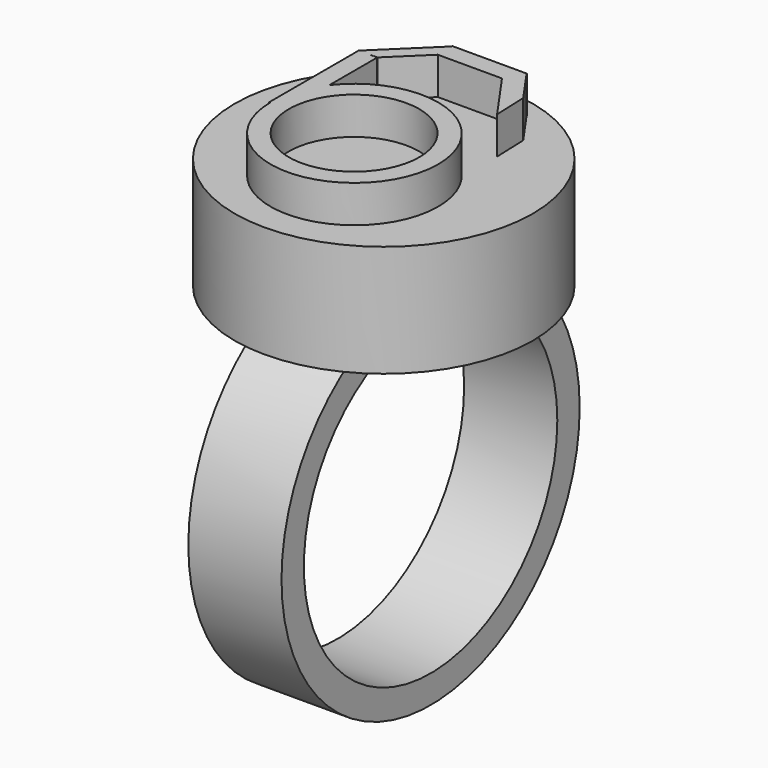
from build123d import *

# Parameters (mm, degrees)
F0_R      = 12.7
F1_DEPTH  = 6.35
F2_R      = 10.795
F3_DEPTH  = 55.83853
F6_R      = 10.156235
F7_DEPTH  = 7.62
F9_R      = 5.715
F10_DEPTH = 2.54
F11_R     = 4.445
F12_DEPTH = 25.4
F13_W     = 1.27
F13_H     = 7.62
F14_DEPTH = 2.54
F16_DEPTH = 2.54
F17_W     = 5.072208
F17_H     = 1.261867
F18_DEPTH = 2.54
F20_DEPTH = 2.54


with BuildPart() as f1:
    # F0 (on Right) → F1 (new body)
    with BuildSketch(Plane.YZ):
        Circle(F0_R)
    extrude(amount=F1_DEPTH)

    # F2 (on Right) → F3 (cut)
    with BuildSketch(Plane.YZ):
        Circle(F2_R)
    extrude(amount=F3_DEPTH, mode=Mode.SUBTRACT)

    # F6 (on offset) → F7 (join)
    with BuildSketch(Plane.XY.offset(11.43)):
        with Locations((3.156903, 0)):
            Circle(F6_R)
    extrude(amount=F7_DEPTH)

    # F9 (on offset) → F10 (join)
    with BuildSketch(Plane.XY.offset(19.05)):
        with Locations((3.159848, -2.503511)):
            Circle(F9_R)
    extrude(amount=F10_DEPTH)

    # F11 (on offset) → F12 (cut)
    with BuildSketch(Plane.XY.offset(19.05)):
        with Locations((3.132005, -2.497431)):
            Circle(F11_R)
    extrude(amount=F12_DEPTH, mode=Mode.SUBTRACT)

    # F13 (on offset) → F14 (join)
    with BuildSketch(Plane.XY.offset(19.05)):
        with Locations((-1.985011, 1.270657)):
            Rectangle(F13_W, F13_H)
    extrude(amount=F14_DEPTH)

    # F15 (on offset) → F16 (join)
    with BuildSketch(Plane.XY.offset(19.05)):
        Polygon((0.990725, 8.591608), (-2.646419, 5.053434), (-1.335068, 5.102919), (2.251208, 8.591608), align=None)
    extrude(amount=F16_DEPTH)

    # F17 (on offset) → F18 (join)
    with BuildSketch(Plane.XY.offset(19.05)):
        with Locations((3.487949, 7.974144)):
            Rectangle(F17_W, F17_H)
    extrude(amount=F18_DEPTH)

    # F19 (on offset) → F20 (join)
    with BuildSketch(Plane.XY.offset(19.05)):
        Polygon((6.024053, 8.580334), (5.277778, 7.432801), (7.72065, 3.951121), (7.633835, 6.286007), align=None)
    extrude(amount=F20_DEPTH)


solid = f1.part
